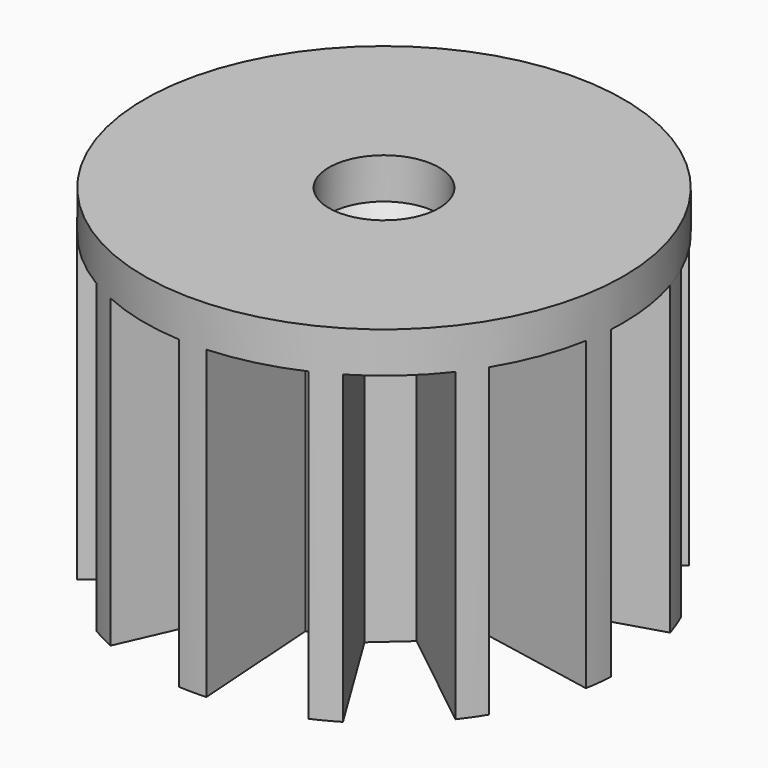
from build123d import *

# Parameters (mm, degrees)
SKETCH_R           = 11.75
PAD_DEPTH          = 15
SKETCH001_R        = 1.7
POCKET_DEPTH       = 15.001
POCKET001_DEPTH    = 87.925619
POLARPATTERN_COUNT = 13
CHAMFER_SIZE       = 1
CHAMFER001_SIZE    = 1
FILLET_R           = 1
FILLET001_R        = 1
SKETCH003_R        = 11.75
PAD001_DEPTH       = 2
PAD001_FACE6_R     = 2.7
POCKET002_DEPTH    = 5


with BuildPart() as part:
    # Sketch → Pad (new body)
    with BuildSketch(Plane.XY):
        Circle(SKETCH_R)
    extrude(amount=PAD_DEPTH)

    # Sketch001 (on Face3 of Pad) → Pocket (cut, through all)
    with BuildSketch(Plane.XY.offset(15)):
        Circle(SKETCH001_R)
    extrude(amount=-POCKET_DEPTH, mode=Mode.SUBTRACT)

    # Sketch002 (on Face3 of Pocket) → Pocket001 (cut, through all)
    with BuildSketch(Plane.XY.offset(15)):
        Polygon((-1, 5), (1, 5), (2.389189, 12.878461), (-2.389183, 12.878462), align=None)
    pocket001 = extrude(amount=-POCKET001_DEPTH, mode=Mode.SUBTRACT)

    # PolarPattern: Pocket001 ×13 about axis
    polarpattern_axis = Axis((0, 0, 15), (0, 0, 1))
    for i in range(1, POLARPATTERN_COUNT):
        add(pocket001.rotate(polarpattern_axis, i * 360 / POLARPATTERN_COUNT), mode=Mode.SUBTRACT)

    # Chamfer
    chamfer_edges = [part.edges().sort_by_distance(p)[0] for p in [
        (-1.7, 0, 0),
    ]]
    chamfer(chamfer_edges, length=CHAMFER_SIZE)

    # Chamfer001
    chamfer001_edges = [part.edges().sort_by_distance(p)[0] for p in [
        (-1.7, 0, 15),
    ]]
    chamfer(chamfer001_edges, length=CHAMFER001_SIZE)

    # Fillet
    fillet_edges = [part.edges().sort_by_distance(p)[0] for p in [
        (-1.7, 0, 1),
    ]]
    fillet(fillet_edges, radius=FILLET_R)

    # Fillet001
    fillet001_edges = [part.edges().sort_by_distance(p)[0] for p in [
        (-1.7, 0, 14),
    ]]
    fillet(fillet001_edges, radius=FILLET001_R)

    # Sketch003 (on Face55 of PolarPattern) → Pad001 (join)
    with BuildSketch(Plane.XY.offset(15)):
        Circle(SKETCH003_R)
    extrude(amount=PAD001_DEPTH)

    # Pad001 Face6 → Pocket002 (cut)
    with BuildSketch(Plane(origin=(0, 0, 15), x_dir=(0, -1, 0), z_dir=(0, 0, -1))):
        Circle(PAD001_FACE6_R)
    extrude(amount=-POCKET002_DEPTH, mode=Mode.SUBTRACT)


solid = part.part
